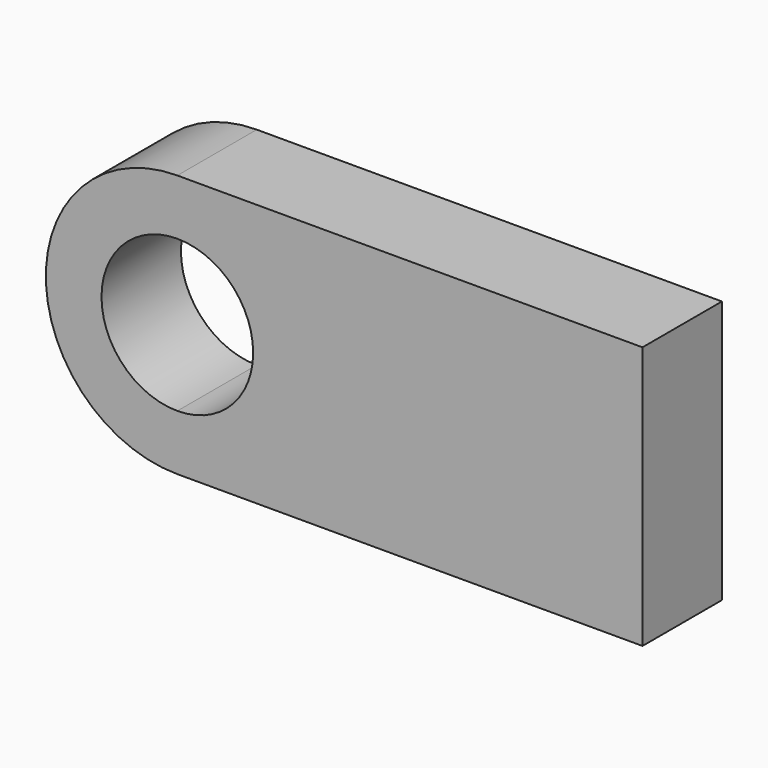
from build123d import *

# Parameters (mm, degrees)
F1_DEPTH = 25.4


with BuildPart() as f1:
    # F0 (on Front) → F1 (new body)
    with BuildSketch(Plane.XZ):
        with BuildLine():
            Line((-59.497595, -33.629075), (59.497595, -33.629075))
            Line((59.497595, -33.629075), (59.497595, 33.629075))
            Line((59.497595, 33.629075), (-59.497595, 33.629075))
            ThreePointArc((-59.497595, 33.629075), (-35.718248, 23.779347), (-25.86852, 0))
            ThreePointArc((-25.86852, 0), (-35.718248, -23.779347), (-59.497595, -33.629075))
        make_face()
        with BuildLine():
            Line((-59.497595, -19.393465), (-59.497595, -33.629075))
            ThreePointArc((-59.497595, -33.629075), (-35.718248, -23.779347), (-25.86852, 0))
            ThreePointArc((-25.86852, 0), (-35.718248, 23.779347), (-59.497595, 33.629075))
            Line((-59.497595, 33.629075), (-59.497595, 19.393465))
            ThreePointArc((-59.497595, 19.393465), (-45.784344, 13.713251), (-40.104129, 0))
            ThreePointArc((-40.104129, 0), (-45.784344, -13.713251), (-59.497595, -19.393465))
        make_face()
        with BuildLine():
            ThreePointArc((-59.497595, 33.629075), (-93.12667, 0), (-59.497595, -33.629075))
            Line((-59.497595, -33.629075), (-59.497595, -19.393465))
            ThreePointArc((-59.497595, -19.393465), (-78.89106, 0), (-59.497595, 19.393465))
            Line((-59.497595, 19.393465), (-59.497595, 33.629075))
        make_face()
    extrude(amount=F1_DEPTH)


solid = f1.part
